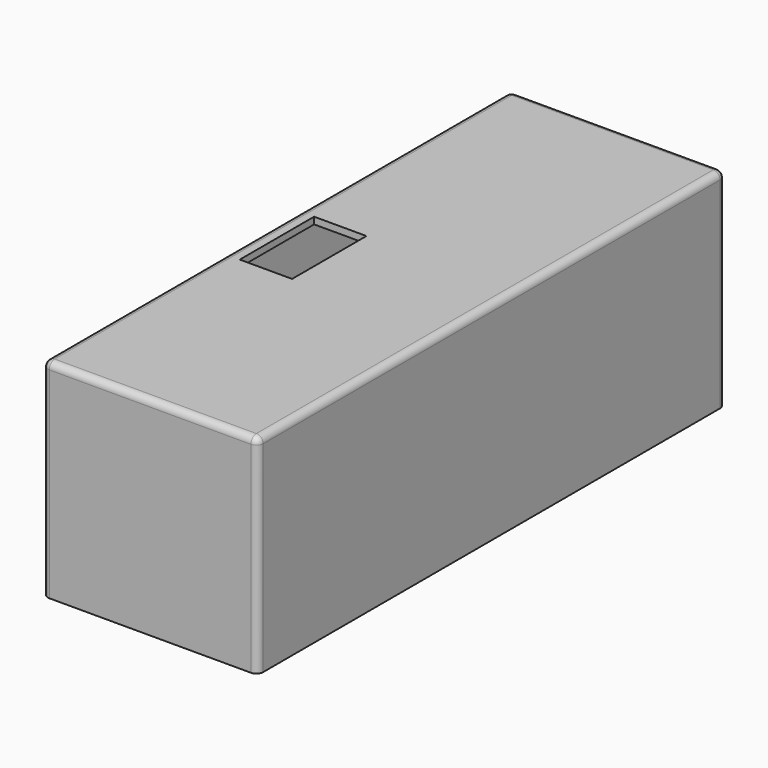
from build123d import *

# Parameters (mm, degrees)
SKETCH008_W     = 44.58321
SKETCH008_H     = 44.7
PAD006_DEPTH    = 126.628014
THICKNESS_T     = 1.5
SKETCH009_W     = 12
SKETCH009_H     = 8.605206
SKETCH009_H_2   = 8.931469
PAD007_DEPTH    = 8
SKETCH010_W     = 12.1
SKETCH010_H     = 8.476139
SKETCH010_W_2   = 12
SKETCH010_H_2   = 8.882789
PAD008_DEPTH    = 5
SKETCH014_W     = 11.6
SKETCH014_H     = 20.6
POCKET003_DEPTH = 5
FILLET_R        = 4.8


with BuildPart() as part:
    # Sketch008 (on Face1 of ShapeBinder002) → Pad006 (new body)
    with BuildSketch(Plane(origin=(0, -63.568756, 0), x_dir=(0, 0, -1), z_dir=(0, -1, 0))):
        with Locations((-79.071486, 9.742272)):
            Rectangle(SKETCH008_W, SKETCH008_H)
    extrude(amount=-PAD006_DEPTH)

    # Thickness
    thickness_openings = [part.faces().sort_by_distance(p)[0] for p in [
        (9.742272, -0.254749, 56.779881),
    ]]
    offset(amount=THICKNESS_T, openings=thickness_openings)

    # Sketch009 (on Face5 of Thickness) → Pad007 (join)
    with BuildSketch(Plane.YZ.offset(-12.607728)):
        with Locations((-37.374453, 61.145227)):
            Rectangle(SKETCH009_W, SKETCH009_H)
        with Locations((33.398816, 61.123247)):
            Rectangle(SKETCH009_W, SKETCH009_H_2)
    extrude(amount=PAD007_DEPTH)

    # Sketch010 (on Face1 of Pad007) → Pad008 (join)
    with BuildSketch(Plane(origin=(32.092272, 0, 0), x_dir=(0, -1, 0), z_dir=(-1, 0, 0))):
        with Locations((-33.333797, 61.228186)):
            Rectangle(SKETCH010_W, SKETCH010_H)
        with Locations((37.319737, 61.147633)):
            Rectangle(SKETCH010_W_2, SKETCH010_H_2)
    extrude(amount=PAD008_DEPTH)

    # Sketch014 (on Face45 of Pad008) → Pocket003 (cut)
    with BuildSketch(Plane.XY.offset(102.863091)):
        with Locations((-5.087287, -4.135811)):
            Rectangle(SKETCH014_W, SKETCH014_H)
    extrude(amount=-POCKET003_DEPTH, mode=Mode.SUBTRACT)

    # Fillet
    fillet_edges = [part.edges().sort_by_distance(p)[0] for p in [
        (32.092272, -37.319737, 65.589027),
        (32.092272, 33.333797, 65.466255),
        (-12.607728, -37.374453, 65.44783),
        (-12.607728, 33.398816, 65.588982),
    ]]
    fillet(fillet_edges, radius=FILLET_R)


solid = part.part
